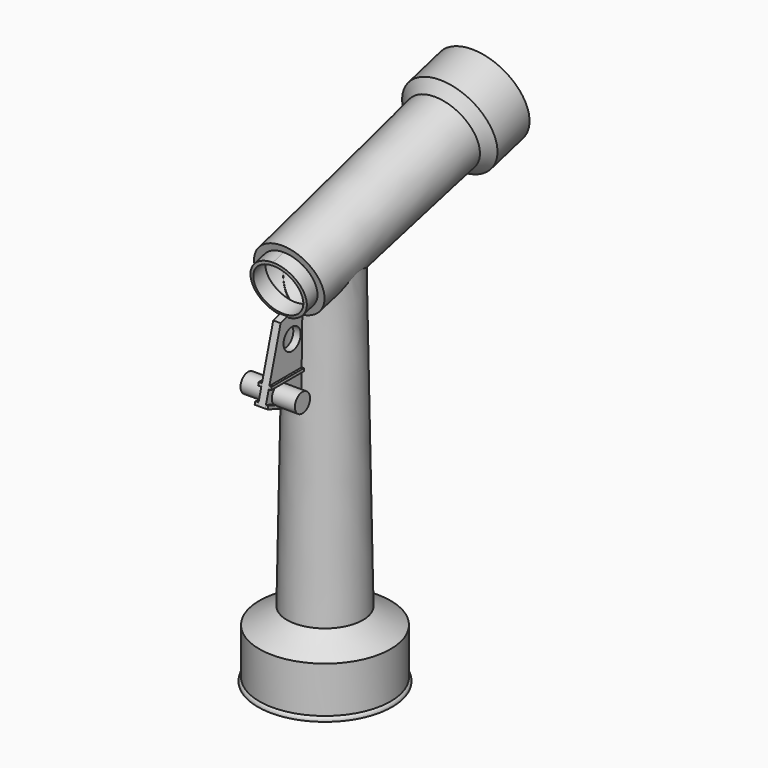
from build123d import *

# Parameters (mm, degrees)
F5_DEPTH  = 0.8
F6_DEPTH  = 0.8
F8_W      = 37.476639729
F8_H      = 26.9862748682
F9_DEPTH  = 6
F10_ANGLE = 90
F14_R     = 9.9414640587
F14_R_2   = 6.8058666773
F15_DEPTH = 3.5
F17_W     = 31.624596566
F17_H     = 34.1119337827
F18_DEPTH = 5
F19_ANGLE = -15
F23_DEPTH = 0.5
F24_DEPTH = 2.8
F25_R     = 2.3276824858
F26_DEPTH = 25
F27_DEPTH = 5
F28_DEPTH = 11.8
F29_R     = 5.1416580833
F30_DEPTH = 100
F31_R     = 6.5498795401
F32_DEPTH = 53.8


with BuildPart() as f1:
    # F0 (on Right) → F1 (revolve)
    with BuildSketch(Plane.YZ):
        with BuildLine():
            Line((-26.5541530218, -15.7698912246), (-32.5541530218, -12.1643399491))
            Line((-32.5541530218, -12.1643399491), (-33.8041530218, 57.7236488461))
            Line((-33.8041530218, 57.7236488461), (-36.3337025046, 57.7236488461))
            Line((-36.3337025046, 57.7236488461), (-35.4780517519, -12.1643399491))
            Line((-35.4780517519, -12.1643399491), (-35.4780517519, -15.6520418823))
            Line((-35.4780517519, -15.6520418823), (-27.7644209171, -15.7929564122))
            Line((-27.7644209171, -15.7929564122), (-27.4025352448, -16.1946434528))
            Line((-27.4025352448, -16.1946434528), (-27.4025352448, -17.7243771553))
            Line((-27.4025352448, -17.7243771553), (-28.4025352448, -17.7243771553))
            Line((-28.4025352448, -17.7243771553), (-28.4025352448, -18.7243771553))
            Line((-28.4025352448, -18.7243771553), (-27.4025352448, -18.7243771553))
            Line((-27.4025352448, -18.7243771553), (-27.4025352448, -19.7243771553))
            Line((-27.4025352448, -19.7243771553), (-28.4025352448, -19.7243771553))
            Line((-28.4025352448, -19.7243771553), (-28.4025352448, -20.7243771553))
            Line((-28.4025352448, -20.7243771553), (-27.4025352448, -20.7243771553))
            Line((-27.4025352448, -20.7243771553), (-27.4025352448, -21.7243771553))
            Line((-27.4025352448, -21.7243771553), (-28.4025352448, -21.7243771553))
            Line((-28.4025352448, -21.7243771553), (-28.4025352448, -22.7243771553))
            Line((-28.4025352448, -22.7243771553), (-27.4025352448, -22.7243771553))
            Line((-27.4025352448, -22.7243771553), (-27.4025352448, -23.7243771553))
            Line((-27.4025352448, -23.7243771553), (-28.4025352448, -23.7243771553))
            Line((-28.4025352448, -23.7243771553), (-27.4025352448, -25.2431593835))
            Line((-27.4025352448, -25.2431593835), (-27.4025352448, -25.8207246661))
            Line((-27.4025352448, -25.8207246661), (-26.5541530218, -26.8826894462))
            add(Edge.make_bspline(
                [(-26.5541530218, -25.7698912246), (-26.4658016077, -25.837343112), (-26.2920782234, -25.9699722306), (-26.1908070662, -26.2425989488), (-26.055944156, -26.6904356385), (-26.3821730505, -26.8163240991), (-26.5541530218, -26.8826894462)],
                knots=[0, 0, 0, 0, 0.2340102487, 0.460129052, 0.715393113, 1, 1, 1, 1], degree=3))
            Line((-26.5541530218, -25.7698912246), (-26.5541530218, -15.7698912246))
        make_face()
    revolve(axis=Axis((0, -40.8041530218, 13.0736397087), (0, 0, -1)))

    # F2 (on Right) → F3 (revolve)
    with BuildSketch(Plane.YZ):
        Polygon((-52.0405851415, 60.0147577869), (-54.9383626204, 59.2383006516), (-54.8574492566, 58.560454502), (-50.6264859204, 59.6941377112), (-50.9886751865, 61.045846454), (-10.1095743309, 71.9993685155), (-8.7854738095, 75.1108067314), (-0.6666458389, 77.2862401296), (-0.8631998816, 78.0197898037), (-9.5565323182, 75.6904183977), (-11.0262207201, 73.0750759725), (-52.4288137092, 61.4636465263), align=None)
    revolve(axis=Axis((0, -26.9035866694, 60.5385391452), (0, 0.9659258263, 0.2588190451)))

    # F4 (on Right) → F5 (join)
    with BuildSketch(Plane.YZ):
        Polygon((-58.0160915852, 32.8078828752), (-48.1425698191, 29.2297115688), (-48.0279896967, 31.2710681721), (-47.5962497294, 47.4567003548), (-48.373761318, 47.477439911), (-48.7934090197, 48.9112138748), (-51.8085629904, 48.0287160292), (-53.8468128703, 47.4567003548), align=None)
    extrude(amount=F5_DEPTH)

    # F4 (on Right) → F6 (join)
    with BuildSketch(Plane.YZ):
        Polygon((-58.0160915852, 32.8078828752), (-48.1425698191, 29.2297115688), (-48.0279896967, 31.2710681721), (-47.5962497294, 47.4567003548), (-48.373761318, 47.477439911), (-48.7934090197, 48.9112138748), (-51.8085629904, 48.0287160292), (-53.8468128703, 47.4567003548), align=None)
    extrude(amount=-F6_DEPTH)

    # F14 (on offset) → F15 (join)
    with BuildSketch(Plane.XY.offset(-13.3)):
        with Locations((0, -40.6692177057)):
            Circle(F14_R)
        with Locations((0, -40.6692177057)):
            Circle(F14_R_2, mode=Mode.SUBTRACT)
    extrude(amount=-F15_DEPTH)

    # F22 (on face) → F23 (join)
    with BuildSketch(Plane.YZ.offset(0.8)):
        Polygon((-48.1474076019, 36.1029849795), (-48.1365833988, 36.7046083977), (-56.9070235801, 36.7046083977), (-57.0782548563, 36.1029849795), align=None)
        Polygon((-48.2702231608, 29.2759732306), (-48.2550799147, 30.117855075), (-57.8359771323, 33.4407174555), (-58.0160915852, 32.8078828752), align=None)
    extrude(amount=F23_DEPTH)

    # F24 (add): faces of the model
    f24_faces = [f1.faces().sort_by_distance(p)[0] for p in [
        (1.3, -52.5674548398, 36.402888048),
        (1.3, -52.9374693672, 31.3537426027),
    ]]
    extrude(f24_faces, amount=-F24_DEPTH)

    # F25 (on face) → F26 (cut)
    with BuildSketch(Plane.YZ.offset(0.8)):
        with Locations((-50.7325790823, 43.1736595929)):
            Circle(F25_R)
    extrude(amount=-F26_DEPTH, mode=Mode.SUBTRACT)

    # F25 (on face) → F27 (join)
    with BuildSketch(Plane.YZ.offset(0.8)):
        with BuildLine():
            Line((-53.7135050199, 32.0109549619), (-55.7723455345, 32.725005383))
            ThreePointArc((-55.7723455345, 32.725005383), (-54.8449125835, 32.0739174678), (-53.7135050199, 32.0109549619))
        make_face()
        with BuildLine():
            ThreePointArc((-53.7135050199, 32.0109549619), (-52.557401223, 32.7352759878), (-52.1062520024, 34.0227857232))
            ThreePointArc((-52.1062520024, 34.0227857232), (-54.8573505435, 35.9672956613), (-55.7723455345, 32.725005383))
            Line((-55.7723455345, 32.725005383), (-53.7135050199, 32.0109549619))
        make_face()
    extrude(amount=F27_DEPTH)

    # F28 (add): a face of the model
    f28_faces = [f1.faces().sort_by_distance(p)[0] for p in [
        (5.8, -54.1690029204, 34.0227857232),
    ]]
    extrude(f28_faces, amount=-F28_DEPTH)

    # F29 (on face) → F30 (cut)
    with BuildSketch(Plane(origin=(0, 18.6995709971, 5.0105349475), x_dir=(-1, 0, 0), z_dir=(0, 0.9659258263, 0.2588190451))):
        with Locations((0, 65.4388990577)):
            Circle(F29_R)
    extrude(amount=-F30_DEPTH, mode=Mode.SUBTRACT)

    # F31 (on face) → F32 (cut)
    with BuildSketch(Plane(origin=(0, 18.6995709971, 5.0105349475), x_dir=(-1, 0, 0), z_dir=(0, 0.9659258263, 0.2588190451))):
        with Locations((0, 65.4388990577)):
            Circle(F31_R)
    extrude(amount=-F32_DEPTH, mode=Mode.SUBTRACT)


with BuildPart() as f9:
    # F8 (on face) → F9 (new body)
    with BuildSketch(Plane(origin=(0, -16.9368333667, 63.2091226438), x_dir=(1, 0, 0), z_dir=(0, 0.2588190451, -0.9659258263))):
        with Locations((-24.7873349581, -53.9699774235)):
            Rectangle(F8_W, F8_H)
    extrude(amount=F9_DEPTH)


with BuildPart() as f9_1:
    # F10: moved
    add(f9.part.rotate(Axis((-24.7873349581, 49.7804458669, 74.8743066532), (1, 0, 0)), F10_ANGLE))


with BuildPart() as f9_2:
    # F12: moved
    add(f9_1.part.moved(Location((-184, 0, 0))))


with BuildPart() as f18:
    # F17 (on Front) → F18 (new body)
    with BuildSketch(Plane.XZ):
        with Locations((-59.7240421921, 45.7488065585)):
            Rectangle(F17_W, F17_H)
    extrude(amount=F18_DEPTH)


with BuildPart() as f18_1:
    # F19: moved
    add(f18.part.rotate(Axis((-59.7240421921, 0, 62.8047734499), (1, 0, 0)), F19_ANGLE))


with BuildPart() as f18_2:
    # F20: moved
    add(f18_1.part.moved(Location((-200.4, 0, 0))))


solid = f1.part
